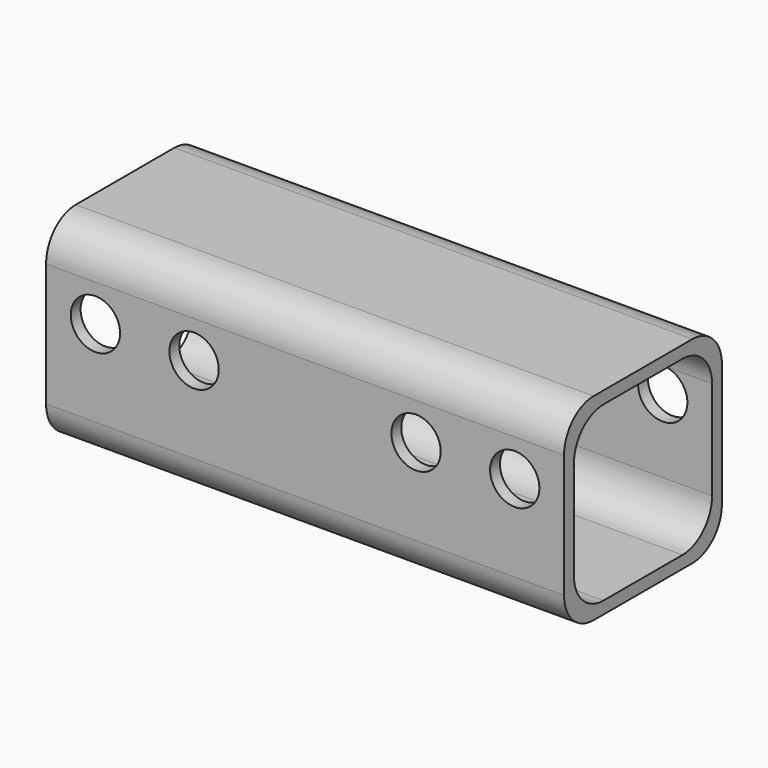
from build123d import *

# Parameters (mm, degrees)
F0_W     = 50.8
F0_H     = 50.8
F1_DEPTH = 133.35
F2_W     = 44.45
F2_H     = 44.45
F3_DEPTH = 876.3
F4_R     = 9.525
F6_D     = 12.7
F6_DEPTH = 127


with BuildPart() as f1:
    # F0 (on Right) → F1 (new body)
    with BuildSketch(Plane.YZ):
        with Locations((25.4, 25.4)):
            Rectangle(F0_W, F0_H)
    extrude(amount=-F1_DEPTH)

    # F2 (on face) → F3 (cut)
    with BuildSketch(Plane.YZ):
        with Locations((25.4, 25.4)):
            Rectangle(F2_W, F2_H)
    extrude(amount=-F3_DEPTH, mode=Mode.SUBTRACT)

    # F4
    f4_edges = [f1.edges().sort_by_distance(p)[0] for p in [
        (-66.675, 3.175, 3.175),
        (-66.675, 47.625, 3.175),
        (-66.675, 47.625, 47.625),
        (-66.675, 3.175, 47.625),
        (-66.675, 50.8, 0),
        (-66.675, 50.8, 50.8),
        (-66.675, 0, 50.8),
        (-66.675, 0, 0),
    ]]
    fillet(f4_edges, radius=F4_R)

    # F6
    with Locations(Plane(origin=(0, 50.8, 0), x_dir=(-1, 0, 0), z_dir=(0, 1, 0))):
        with Locations((120.65, 31.75), (95.25, 31.75), (38.1, 31.75), (12.7, 31.75)):
            Hole(F6_D / 2, depth=F6_DEPTH)


solid = f1.part
